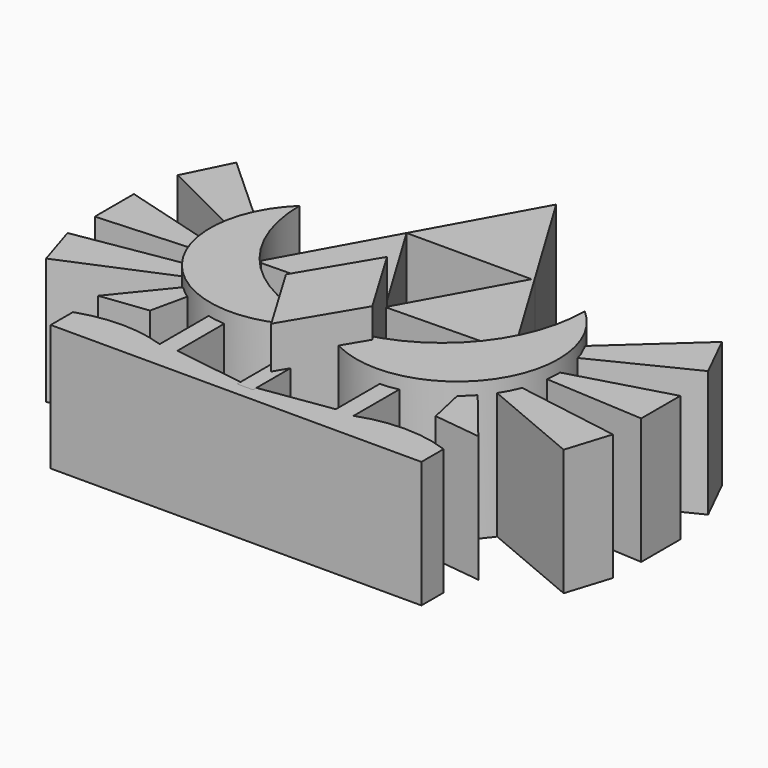
from build123d import *

# Parameters (mm, degrees)
F1_DEPTH  = 30
F3_DEPTH  = 33
F5_DEPTH  = 40
F7_DEPTH  = 30
F9_DEPTH  = 30
F11_DEPTH = 30
F13_DEPTH = 30
F14_W     = 3.782077
F14_H     = 11.085399
F15_DEPTH = 30


with BuildPart() as f1:
    # F0 (on Top) → F1 (new body)
    with BuildSketch(Plane.XY):
        Polygon((14.524153, 8.377491), (14.834989, 8.939973), (-0.649498, 34.634927), (-15.159738, 8.377491), align=None)
        Polygon((-29.669977, -17.879945), (0.324749, -17.317463), (-15.159738, 8.377491), align=None)
        Polygon((0.324749, -17.317463), (30.319475, -16.754982), (14.834989, 8.939973), (14.524153, 8.377491), align=None)
    extrude(amount=F1_DEPTH)


with BuildPart() as f3:
    # F2 (on Top) → F3 (new body)
    with BuildSketch(Plane.XY):
        with BuildLine():
            ThreePointArc((33.865582, 0), (23.946583, -23.946583), (0, -33.865582))
            ThreePointArc((0, -33.865582), (35.034983, -35.034983), (33.865582, 0))
        make_face()
        with BuildLine():
            ThreePointArc((0, -33.865582), (-23.946583, -23.946583), (-33.865582, 0))
            ThreePointArc((-33.865582, 0), (-34.230033, -34.230033), (0, -33.865582))
        make_face()
    extrude(amount=F3_DEPTH)


with BuildPart() as f5:
    # F4 (on Top) → F5 (new body)
    with BuildSketch(Plane.XY):
        Polygon((10.243464, -33.543441), (0, -16.365798), (-10.243464, -33.543441), (0, -50.721085), align=None)
    extrude(amount=F5_DEPTH)


with BuildPart() as f7:
    # F6 (on Top) → F7 (new body)
    with BuildSketch(Plane.XY):
        Polygon((-37.6914, -12.418555), (-38.235461, -6.74458), (-57.46457, 10.755175), (-62.786807, 0), align=None)
        Polygon((57.803264, 10.755175), (38.574155, -6.74458), (38.030094, -12.418555), (63.125501, 0), align=None)
    extrude(amount=F7_DEPTH)


with BuildPart() as f9:
    # F8 (on Top) → F9 (new body)
    with BuildSketch(Plane.XY):
        Polygon((-36.055497, -30.875205), (-38.775463, -26.679758), (-64.232058, -30.875205), (-60.932887, -41.368797), align=None)
        Polygon((65.224838, -30.875205), (39.768244, -26.679758), (37.048277, -30.875205), (61.925667, -41.368797), align=None)
        Polygon((-39.442767, -21.089044), (-40.351194, -17.81265), (-64.39846, -10.976788), (-64.39846, -22.576788), align=None)
        Polygon((65.309278, -10.976788), (41.262012, -17.81265), (40.353585, -21.089044), (65.309278, -22.576788), align=None)
    extrude(amount=F9_DEPTH)


with BuildPart() as f11:
    # F10 (on Top) → F11 (new body)
    with BuildSketch(Plane.XY):
        Polygon((-30.159193, -33.445716), (-32.848148, -33.201745), (-44.064802, -47.022985), (-32.848148, -45.653071), align=None)
        Polygon((34.977713, -33.201745), (32.288759, -33.445716), (34.977713, -45.653071), (46.194368, -47.022985), align=None)
    extrude(amount=F11_DEPTH)


with BuildPart() as f13:
    # F12 (on Top) → F13 (new body)
    with BuildSketch(Plane.XY):
        with BuildLine():
            Line((-18.792957, -40.052891), (-23.022957, -40.052891))
            Line((-23.022957, -40.052891), (-23.022957, -55.052891))
            ThreePointArc((-23.022957, -55.052891), (-33.312693, -53.319056), (-43.60243, -55.052891))
            Line((-43.60243, -55.052891), (-43.60243, -61.662891))
            Line((-43.60243, -61.662891), (44.39757, -61.662891))
            Line((44.39757, -61.662891), (44.39757, -55.052891))
            ThreePointArc((44.39757, -55.052891), (33.710786, -53.178349), (23.024002, -55.052891))
            Line((23.024002, -55.052891), (23.024002, -40.052891))
            Line((23.024002, -40.052891), (18.792957, -40.052891))
            Line((18.792957, -40.052891), (18.792957, -55.052891))
            Line((18.792957, -55.052891), (0, -57.850171))
            Line((0, -57.850171), (-18.792957, -55.052891))
            Line((-18.792957, -55.052891), (-18.792957, -40.052891))
        make_face()
    extrude(amount=F13_DEPTH)


with BuildPart() as f15:
    # F14 (on Top) → F15 (new body)
    with BuildSketch(Plane.XY):
        with Locations((0.063032, -53.021136)):
            Rectangle(F14_W, F14_H)
    extrude(amount=F15_DEPTH)


solid = Compound([f1.part, f3.part, f5.part, f7.part, f9.part, f11.part, f13.part, f15.part])
